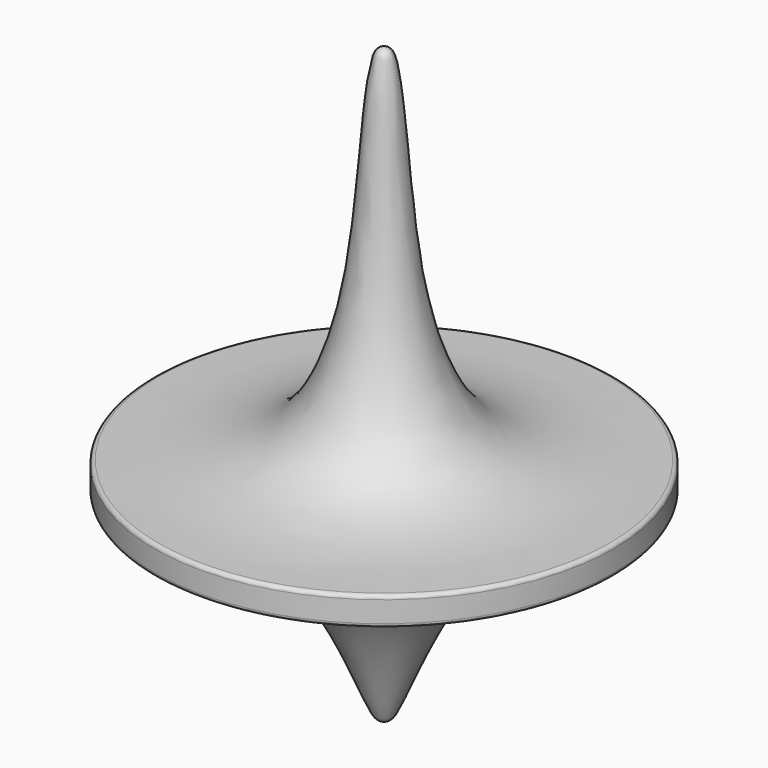
from build123d import *

# Parameters (mm, degrees)
F2_R = 0.2


with BuildPart() as f1:
    # F0 (on Front) → F1 (revolve)
    with BuildSketch(Plane.XZ):
        with BuildLine():
            Line((0, 31), (0, 0))
            add(Edge.make_bspline(
                [(0, 0), (0.3180536659, 0), (0.8915118152, 0.814820964), (4.0264437958, 9.6555481329), (9.7937965602, 10.4681886388), (12, 10.5)],
                knots=[0, 0, 0, 0, 0.148695934, 0.5893537215, 1, 1, 1, 1], degree=3))
            Line((12, 10.5), (12, 12))
            add(Edge.make_bspline(
                [(12, 12), (5.7834304676, 11.8876153457), (2.8912461818, 14.5767622449), (1.1720981317, 21.6111799684), (0.8206499989, 30.16731496), (0.3019175402, 30.9851107863), (0, 31)],
                knots=[0, 0, 0, 0, 0.3231153909, 0.5993199342, 0.9032065007, 1, 1, 1, 1], degree=3))
        make_face()
    revolve(axis=Axis((0, 0, 15.5), (0, 0, 1)))

    # F2
    f2_edges = [f1.edges().sort_by_distance(p)[0] for p in [
        (-12, 0, 10.5),
        (-12, 0, 12),
    ]]
    fillet(f2_edges, radius=F2_R)


solid = f1.part
